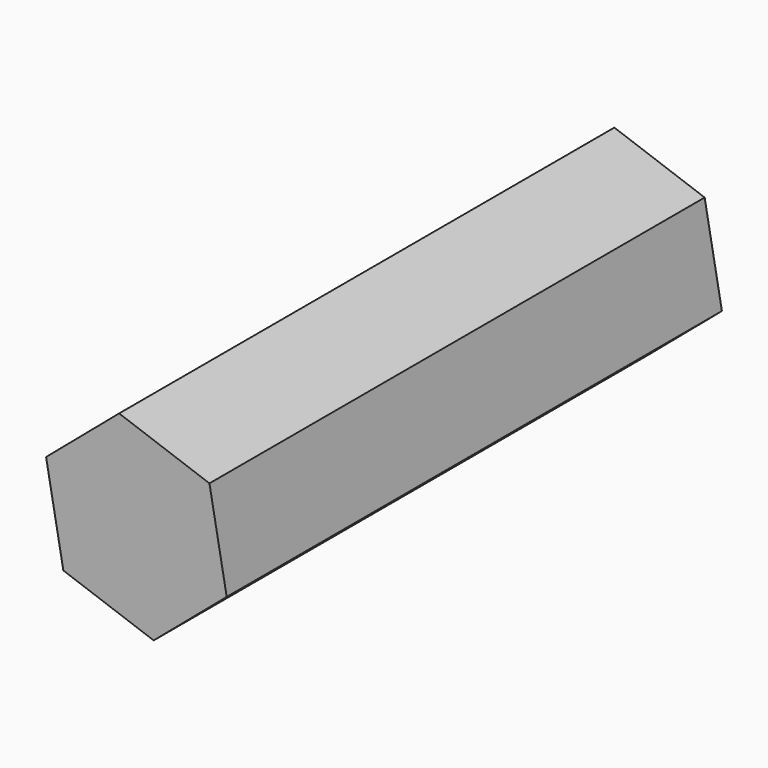
from build123d import *

# Parameters (mm, degrees)
F1_DEPTH = 508
F2_T     = -25.4


with BuildPart() as f1:
    # F0 (on Front) → F1 (new body)
    with BuildSketch(Plane.XZ):
        Polygon((-58.7216, 38.701411), (-44.555271, -38.701411), (29.560703, -65.13442), (89.510348, -14.164609), (75.344019, 63.238212), (1.228045, 89.671222), align=None)
        Polygon((-58.7216, 38.701411), (-44.555271, -38.701411), (29.560703, -65.13442), (89.510348, -14.164609), (75.344019, 63.238212), (1.228045, 89.671222), align=None)
    extrude(amount=F1_DEPTH)

    # F2
    f2_openings = [f1.faces().sort_by_distance(p)[0] for p in [
        (-7.497284, -254, -51.917915),
    ]]
    offset(amount=F2_T, openings=f2_openings)


solid = f1.part
